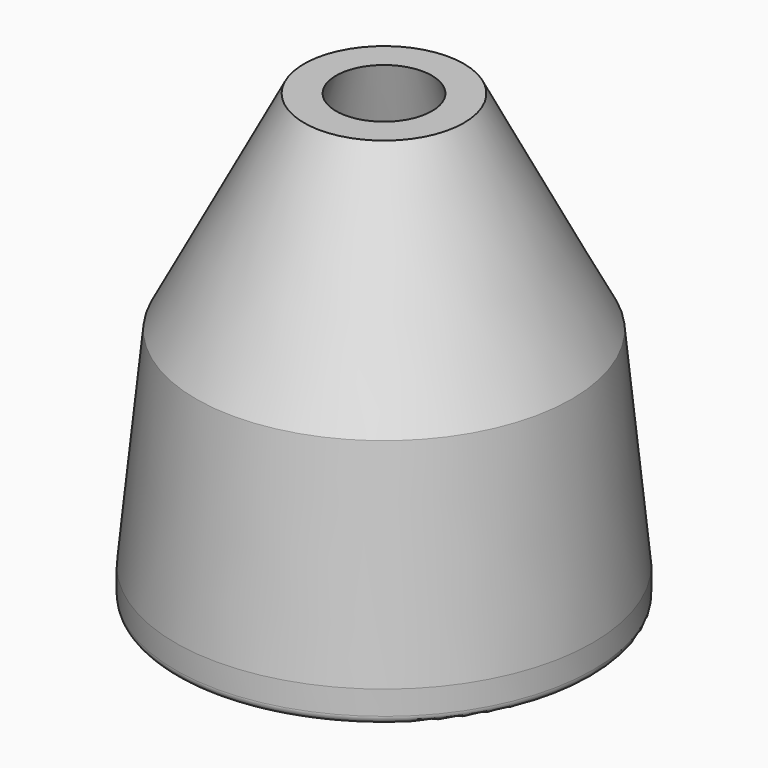
from build123d import *

# Parameters (mm, degrees)
F2_R = 0.5


with BuildPart() as f1:
    # F0 (on Front) → F1 (revolve)
    with BuildSketch(Plane.XZ):
        Polygon((7, 16), (7, 13), (8.75, 13), (10.05, 0), (9.05, 0), (9.05, -2), (13.05, -2), (13.05, 0), (11.75, 13), (5, 26), (3, 26), (6, 16), align=None)
    revolve(axis=Axis((0, 0, 10.544424), (0, 0, -1)))

    # F2
    f2_edges = [f1.edges().sort_by_distance(p)[0] for p in [
        (-13.05, 0, -2),
        (-9.05, 0, -2),
        (-9.05, 0, 0),
        (-8.75, 0, 13),
        (-7, 0, 13),
        (-7, 0, 16),
        (-6, 0, 16),
    ]]
    fillet(f2_edges, radius=F2_R)


solid = f1.part
